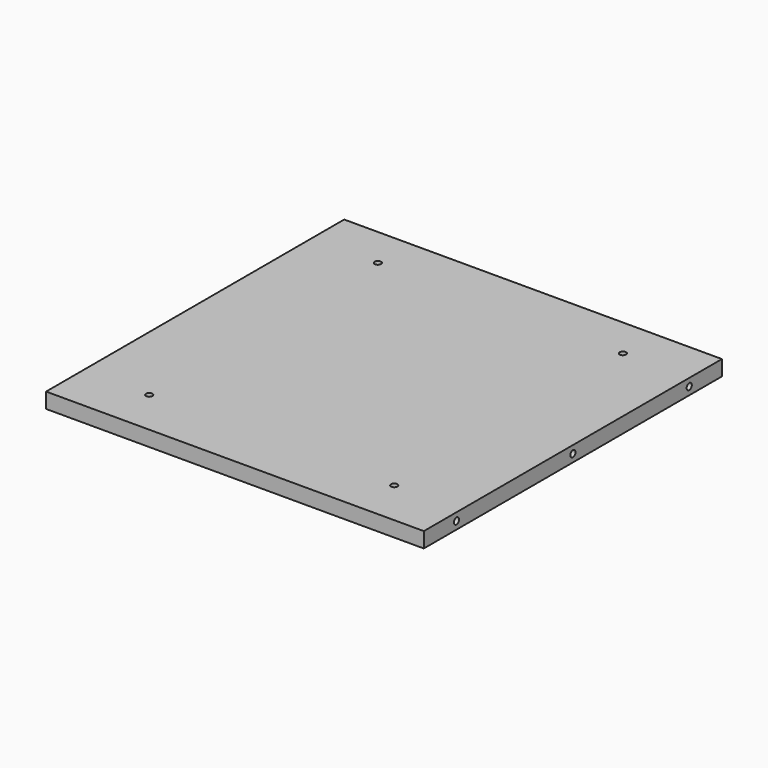
from build123d import *

# Parameters (mm, degrees)
F0_W      = 469.9
F0_H      = 463.55
F1_DEPTH  = 19.05
F3_D      = 15.0114
F3_DEPTH  = 14.224
F3_TIP    = 4.5098795482
F5_D      = 8.001
F5_DEPTH  = 25.4
F5_TIP    = 2.4037429064
F7_D      = 8.001
F7_DEPTH  = 25.4
F7_TIP    = 2.4037429064
F9_D      = 8.001
F9_DEPTH  = 25.4
F9_TIP    = 2.4037429064
F11_D     = 8.001
F11_DEPTH = 19.05
F11_TIP   = 2.4037429064


with BuildPart() as f1:
    # F0 (on Top) → F1 (new body)
    with BuildSketch(Plane.XY):
        Rectangle(F0_W, F0_H)
    extrude(amount=F1_DEPTH)

    # F3
    with Locations(Plane(origin=(0, 0, 0), x_dir=(1, 0, 0), z_dir=(0, 0, -1))):
        with Locations((-211.074, 180.975), (-211.074, 0), (-211.074, -180.975), (-184.15, -207.899), (0, -207.899), (184.15, -207.899), (211.074, -180.975), (211.074, 0), (211.074, 180.975)):
            Hole(F3_D / 2, depth=F3_DEPTH)
            with Locations((0, 0, -(F3_DEPTH + F3_TIP / 2))):  # 118° drill point
                Cone(0, F3_D / 2, F3_TIP, mode=Mode.SUBTRACT)

    # F5
    with Locations(Plane.YZ.offset(234.95)):
        with Locations((-180.975, 9.525), (0, 9.525), (180.975, 9.525)):
            Hole(F5_D / 2, depth=F5_DEPTH)
            with Locations((0, 0, -(F5_DEPTH + F5_TIP / 2))):  # 118° drill point
                Cone(0, F5_D / 2, F5_TIP, mode=Mode.SUBTRACT)

    # F7
    with Locations(Plane(origin=(0, 231.775, 0), x_dir=(-1, 0, 0), z_dir=(0, 1, 0))):
        with Locations((-184.15, 9.525), (0, 9.525), (184.15, 9.525)):
            Hole(F7_D / 2, depth=F7_DEPTH)
            with Locations((0, 0, -(F7_DEPTH + F7_TIP / 2))):  # 118° drill point
                Cone(0, F7_D / 2, F7_TIP, mode=Mode.SUBTRACT)

    # F9
    with Locations(Plane(origin=(-234.95, 0, 0), x_dir=(0, -1, 0), z_dir=(-1, 0, 0))):
        with Locations((-180.975, 9.525), (0, 9.525), (180.975, 9.525)):
            Hole(F9_D / 2, depth=F9_DEPTH)
            with Locations((0, 0, -(F9_DEPTH + F9_TIP / 2))):  # 118° drill point
                Cone(0, F9_D / 2, F9_TIP, mode=Mode.SUBTRACT)

    # F11
    with Locations(Plane.XY.offset(19.05)):
        with Locations((-152.4, 180.975), (152.4, 180.975), (152.4, -174.625), (-152.4, -174.625)):
            Hole(F11_D / 2, depth=F11_DEPTH)
            with Locations((0, 0, -(F11_DEPTH + F11_TIP / 2))):  # 118° drill point
                Cone(0, F11_D / 2, F11_TIP, mode=Mode.SUBTRACT)


solid = f1.part
